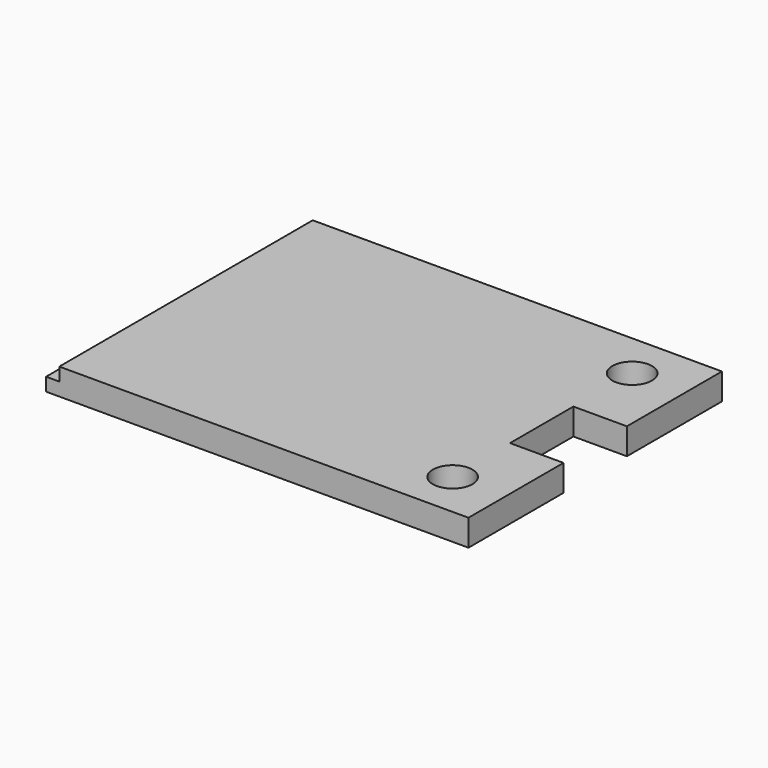
from build123d import *

# Parameters (mm, degrees)
F0_R     = 9.525
F1_DEPTH = 12.7
F2_W     = 6.35
F2_H     = 6.35
F3_DEPTH = 152.401


with BuildPart() as f1:
    # F0 (on Top) → F1 (new body)
    with BuildSketch(Plane.XY):
        Polygon((101.6, 76.2), (-101.6, 76.2), (-101.6, -76.2), (101.6, -76.2), (101.6, -19.05), (75.863957, -19.05), (75.863957, 19.05), (101.6, 19.05), align=None)
        with Locations((76.2, -53.975)):
            Circle(F0_R, mode=Mode.SUBTRACT)
        with Locations((76.2, 53.975)):
            Circle(F0_R, mode=Mode.SUBTRACT)
    extrude(amount=F1_DEPTH)

    # F2 (on face) → F3 (cut, through all)
    with BuildSketch(Plane.XZ.offset(76.2)):
        with Locations((-98.425, 9.525)):
            Rectangle(F2_W, F2_H)
    extrude(amount=-F3_DEPTH, mode=Mode.SUBTRACT)


solid = f1.part
